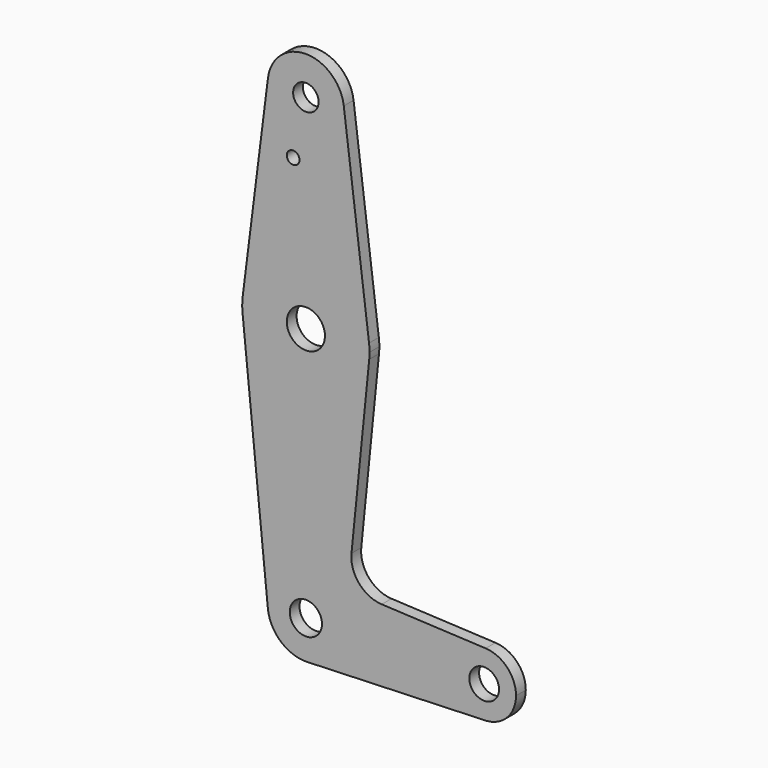
from build123d import *

# Parameters (mm, degrees)
F0_R     = 4.7559
F0_R_2   = 1.5875
F0_R_3   = 3.175
F0_R_4   = 4.021931
F0_R_5   = 3.707781
F1_DEPTH = 3.048


with BuildPart() as f1:
    # F0 (on Front) → F1 (new body)
    with BuildSketch(Plane.XZ):
        with BuildLine():
            ThreePointArc((15.795426, -1.5875), (15.855094, -0.794747), (15.875, 0))
            ThreePointArc((15.875, 0), (15.843841, 0.994139), (15.750488, 1.984375))
            ThreePointArc((15.750488, 1.984375), (0, 15.875), (-15.750488, 1.984375))
            ThreePointArc((-15.750488, 1.984375), (-15.873744, 0.199705), (-15.795426, -1.5875))
            ThreePointArc((-15.795426, -1.5875), (0, -15.875), (15.795426, -1.5875))
        make_face()
        Circle(F0_R, mode=Mode.SUBTRACT)
        with BuildLine():
            ThreePointArc((-15.750488, 1.984375), (0, 15.875), (15.750488, 1.984375))
            Line((15.750488, 1.984375), (9.450293, 51.990625))
            ThreePointArc((9.450293, 51.990625), (9.506305, 51.396483), (9.525, 50.8))
            ThreePointArc((9.525, 50.8), (-0.596483, 41.293695), (-9.450293, 51.990625))
            Line((-9.450293, 51.990625), (-15.750488, 1.984375))
        make_face()
        with Locations((-3.175, 36.5252)):
            Circle(F0_R_2, mode=Mode.SUBTRACT)
        with BuildLine():
            Line((11.373116, -45.58892), (15.795426, -1.5875))
            ThreePointArc((15.795426, -1.5875), (0, -15.875), (-15.795426, -1.5875))
            Line((-15.795426, -1.5875), (-9.477255, -64.4525))
            ThreePointArc((-9.477255, -64.4525), (-0.476848, -53.986944), (9.525, -63.5))
            ThreePointArc((9.525, -63.5), (6.855179, -70.113028), (0.342398, -73.018844))
            Line((0.342398, -73.018844), (44.735331, -71.422007))
            ThreePointArc((44.735331, -71.422007), (36.512634, -63.443246), (44.828032, -55.561144))
            Line((44.828032, -55.561144), (18.904828, -54.325119))
            ThreePointArc((18.904828, -54.325119), (13.262077, -51.575141), (11.373116, -45.58892))
        make_face()
        with BuildLine():
            ThreePointArc((9.525, 50.8), (9.506305, 51.396483), (9.450293, 51.990625))
            ThreePointArc((9.450293, 51.990625), (0, 60.325), (-9.450293, 51.990625))
            ThreePointArc((-9.450293, 51.990625), (-0.596483, 41.293695), (9.525, 50.8))
        make_face()
        with Locations((0, 50.8)):
            Circle(F0_R_3, mode=Mode.SUBTRACT)
        with BuildLine():
            ThreePointArc((9.525, -63.5), (-0.476848, -53.986944), (-9.477255, -64.4525))
            ThreePointArc((-9.477255, -64.4525), (-6.261547, -70.67765), (0.342398, -73.018844))
            ThreePointArc((0.342398, -73.018844), (6.855179, -70.113028), (9.525, -63.5))
        make_face()
        with Locations((0, -63.5)):
            Circle(F0_R_4, mode=Mode.SUBTRACT)
        with BuildLine():
            ThreePointArc((52.387499, -63.489637), (50.194759, -58.012262), (44.828032, -55.561144))
            ThreePointArc((44.828032, -55.561144), (36.512634, -63.443246), (44.735331, -71.422007))
            ThreePointArc((44.735331, -71.422007), (44.900425, -71.414347), (45.065323, -71.403251))
            Line((45.065323, -71.403251), (45.212511, -71.390427))
            ThreePointArc((45.212511, -71.390427), (50.326067, -68.825903), (52.387499, -63.489637))
        make_face()
        with Locations((44.449999, -63.489637)):
            Circle(F0_R_5, mode=Mode.SUBTRACT)
        with BuildLine():
            Line((45.212511, -71.390427), (45.065323, -71.403251))
            ThreePointArc((45.065323, -71.403251), (45.138947, -71.397181), (45.212511, -71.390427))
        make_face()
    extrude(amount=F1_DEPTH)


solid = f1.part
